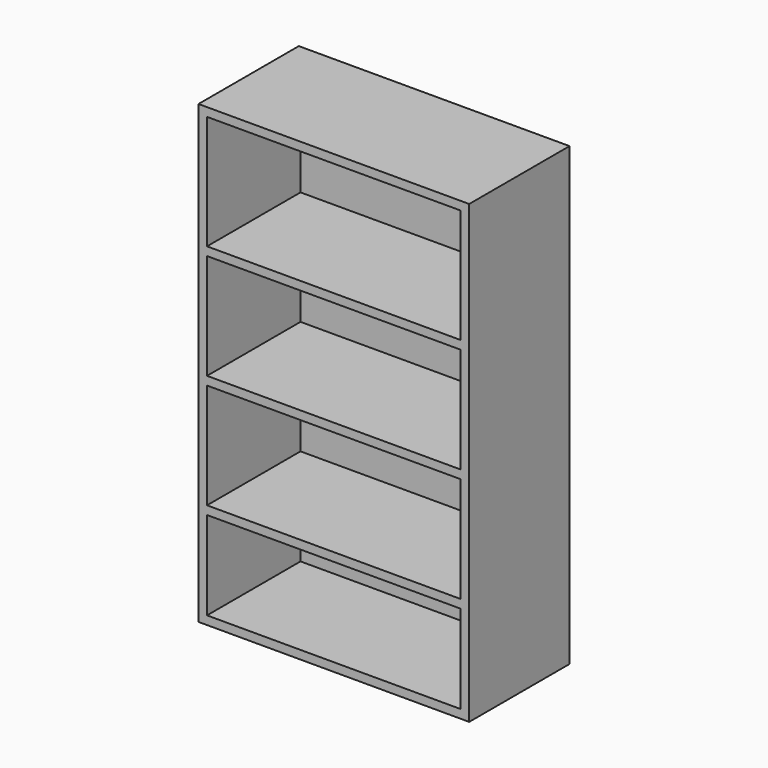
from build123d import *

# Parameters (mm, degrees)
F0_W     = 603.25
F0_H     = 1016
F1_DEPTH = 279.4
F2_T     = -19.05
F3_W     = 565.15
F3_H     = 19.05
F4_DEPTH = 260.35


with BuildPart() as f1:
    # F0 (on Front) → F1 (new body)
    with BuildSketch(Plane.XZ):
        with Locations((301.625, 508)):
            Rectangle(F0_W, F0_H)
    extrude(amount=F1_DEPTH)

    # F2
    f2_openings = [f1.faces().sort_by_distance(p)[0] for p in [
        (301.625, -279.4, 508),
    ]]
    offset(amount=F2_T, openings=f2_openings)

    # F3 (on face) → F4 (join)
    with BuildSketch(Plane.XZ.offset(19.05)):
        with Locations((301.625, 733.425)):
            Rectangle(F3_W, F3_H)
        with Locations((301.625, 479.425)):
            Rectangle(F3_W, F3_H)
        with Locations((301.625, 225.425)):
            Rectangle(F3_W, F3_H)
    extrude(amount=F4_DEPTH)


solid = f1.part
